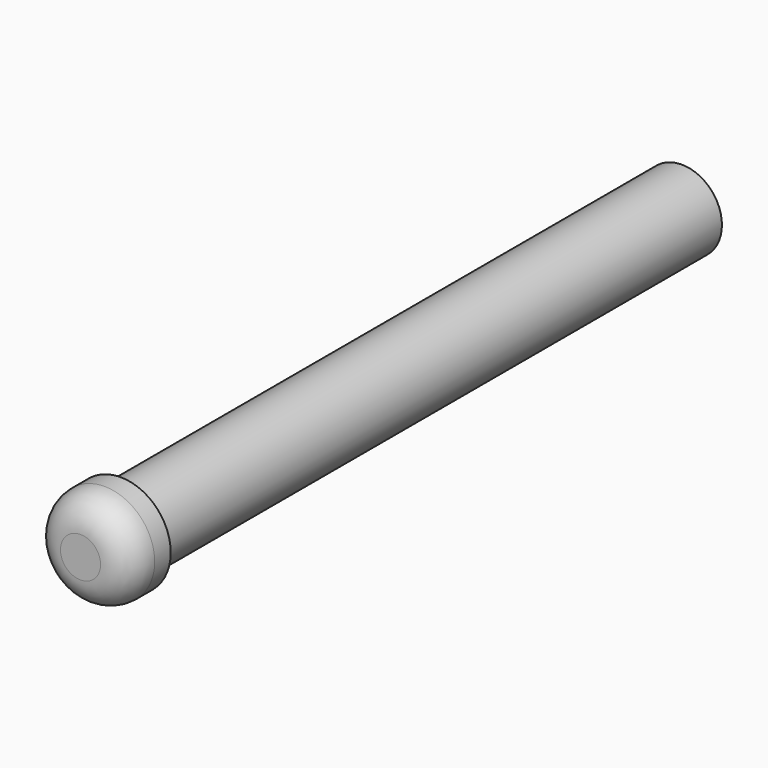
from build123d import *

# Parameters (mm, degrees)
F0_R     = 4
F1_DEPTH = 35
F2_R     = 5
F2_R_2   = 4
F3_DEPTH = 5
F4_R     = 3


with BuildPart() as f1:
    # F0 (on Front) → F1 (new body, symmetric)
    with BuildSketch(Plane.XZ):
        Circle(F0_R)
    extrude(amount=F1_DEPTH, both=True)

    # F2 (on face) → F3 (join)
    with BuildSketch(Plane.XZ.offset(35)):
        Circle(F2_R)
        Circle(F2_R_2, mode=Mode.SUBTRACT)
        Circle(F2_R_2)
    extrude(amount=F3_DEPTH)

    # F4
    f4_edges = [f1.edges().sort_by_distance(p)[0] for p in [
        (-5, -40, 0),
    ]]
    fillet(f4_edges, radius=F4_R)


solid = f1.part
